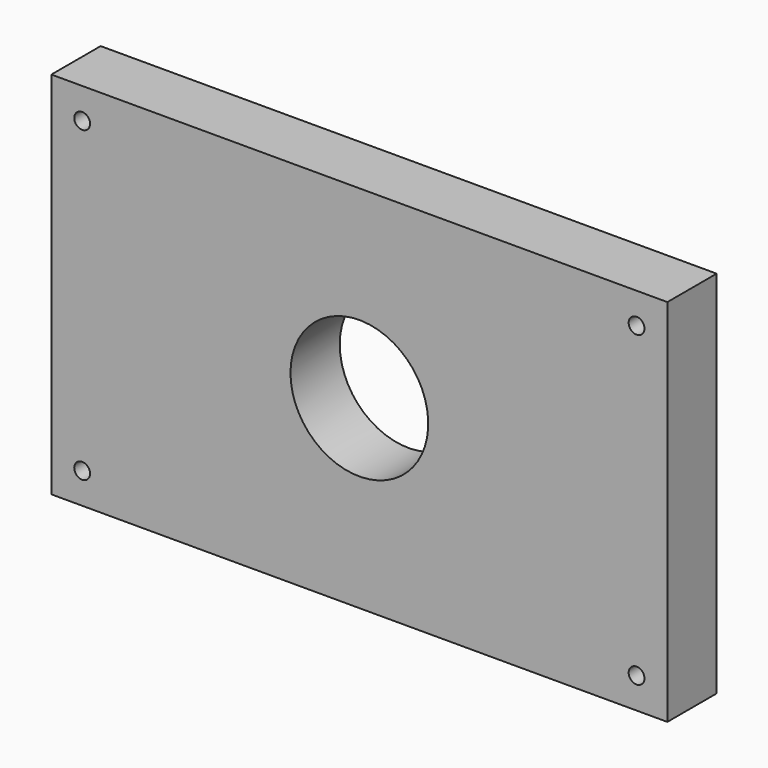
from build123d import *

# Parameters (mm, degrees)
F0_W     = 254
F0_H     = 152.4
F1_DEPTH = 25.4
F3_D     = 6.5278
F4_R     = 28.401981162
F5_DEPTH = 25.401


with BuildPart() as f1:
    # F0 (on Front) → F1 (new body)
    with BuildSketch(Plane.XZ):
        with Locations((127, 76.2)):
            Rectangle(F0_W, F0_H)
    extrude(amount=F1_DEPTH)

    # F3 (through all)
    with Locations(Plane.XZ.offset(25.4)):
        with Locations((12.7, 139.7), (241.3, 139.7), (241.3, 12.7), (12.7, 12.7)):
            Hole(F3_D / 2)

    # F4 (on face) → F5 (cut, through all)
    with BuildSketch(Plane(origin=(0, 0, 0), x_dir=(-1, 0, 0), z_dir=(0, 1, 0))):
        with Locations((-127, 76.2)):
            Circle(F4_R)
    extrude(amount=-F5_DEPTH, mode=Mode.SUBTRACT)


solid = f1.part
